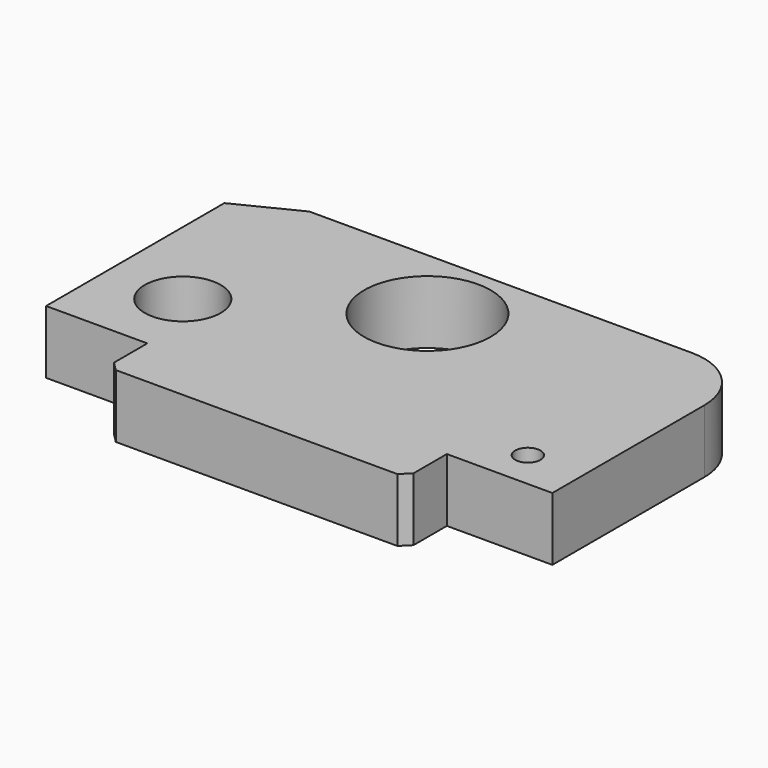
from build123d import *

# Parameters (mm, degrees)
F0_R     = 15
F0_R_2   = 5
F0_R_3   = 25
F1_DEPTH = 25


with BuildPart() as f1:
    # F0 (on Top) → F1 (new body)
    with BuildSketch(Plane.XY):
        with BuildLine():
            Line((-63.494629, -20.657068), (-63.494629, -37.121534))
            Line((-63.494629, -37.121534), (-59.959095, -40.657068))
            Line((-59.959095, -40.657068), (51.290616, -40.657068))
            Line((51.290616, -40.657068), (54.82615, -37.121534))
            Line((54.82615, -37.121534), (54.82615, -20.657068))
            Line((54.82615, -20.657068), (74.82615, -20.657068))
            Line((74.82615, -20.657068), (96.505371, -20.657068))
            Line((96.505371, -20.657068), (96.505371, -5.657068))
            Line((96.505371, -5.657068), (96.505371, 54.342932))
            ThreePointArc((96.505371, 54.342932), (89.18304, 72.020601), (71.505371, 79.342932))
            Line((71.505371, 79.342932), (-8.494629, 79.342932))
            Line((-8.494629, 79.342932), (-79.494629, 79.342932))
            Line((-79.494629, 79.342932), (-103.494629, 67.342932))
            Line((-103.494629, 67.342932), (-103.494629, 9.342932))
            Line((-103.494629, 9.342932), (-103.494629, -20.657068))
            Line((-103.494629, -20.657068), (-73.494629, -20.657068))
            Line((-73.494629, -20.657068), (-63.494629, -20.657068))
        make_face()
        with Locations((-73.494629, 9.342932)):
            Circle(F0_R, mode=Mode.SUBTRACT)
        with Locations((74.82615, -5.657068)):
            Circle(F0_R_2, mode=Mode.SUBTRACT)
        with Locations((-8.494629, 48.884407)):
            Circle(F0_R_3, mode=Mode.SUBTRACT)
    extrude(amount=F1_DEPTH)


solid = f1.part
